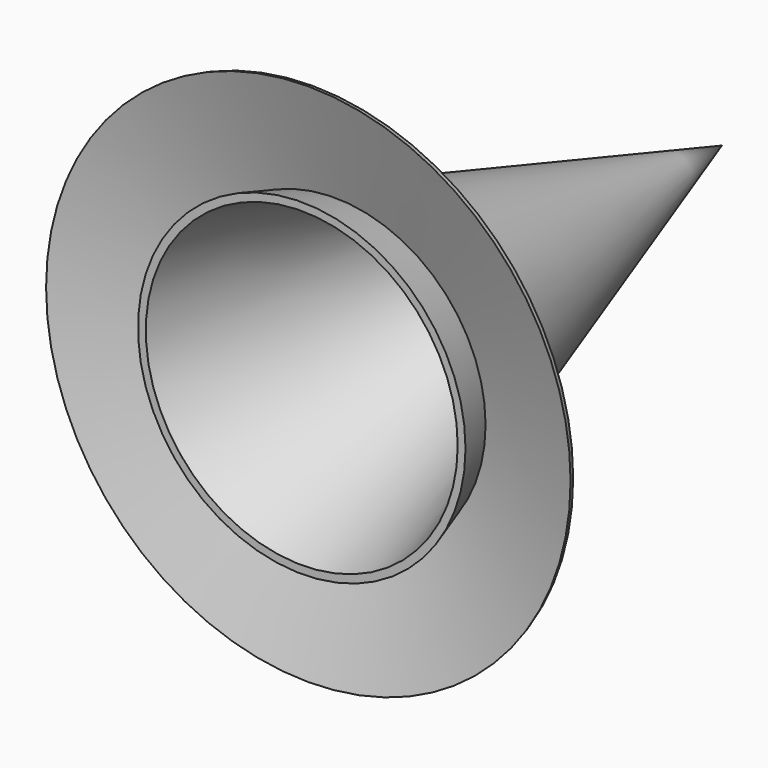
from build123d import *


with BuildPart() as f1:
    # F0 (on Top) → F1 (revolve)
    with BuildSketch(Plane.XY):
        Polygon((-135.6047441603, 79.8190953634), (-135.6047441603, 72.9628199308), (-92.9327441603, -63.8859245598), (-90.7948291479, -63.8859245598), (-94.3001271763, -52.644463315), (-94.7549268603, -51.1859245598), align=None)
        Polygon((-64.3050425151, -60.1785350463), (-94.7549268603, -51.1859245598), (-94.3001271763, -52.644463315), (-63.850242831, -61.6370738015), align=None)
    revolve(axis=Axis((-135.6047441603, 7.9665854018, 0), (0, 1, 0)))


solid = f1.part
